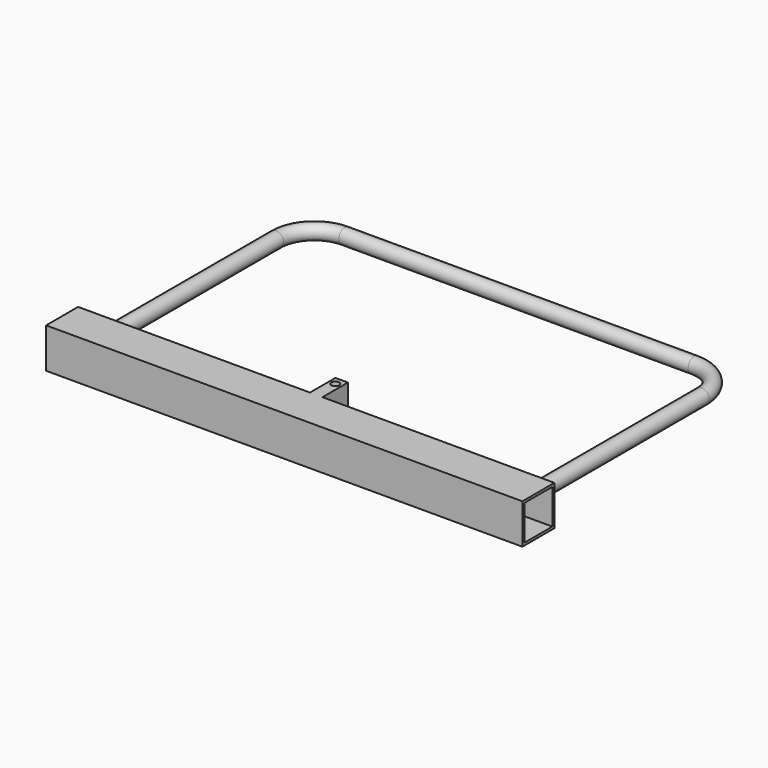
from build123d import *

# Parameters (mm, degrees)
F0_W      = 80
F0_H      = 80
F0_W_2    = 70
F0_H_2    = 70
F1_DEPTH  = 952.5
F4_R      = 15
F7_W      = 63.5
F7_H      = 80
F8_DEPTH  = 12.5
F9_R      = 7.9375
F10_DEPTH = 80.001
F11_R     = 2
F12_DEPTH = 5


with BuildPart() as f1:
    # F0 (on Right) → F1 (new body)
    with BuildSketch(Plane.YZ):
        with Locations((-40, 40)):
            Rectangle(F0_W, F0_H)
        with Locations((-40, 40)):
            Rectangle(F0_W_2, F0_H_2, mode=Mode.SUBTRACT)
    extrude(amount=-F1_DEPTH)

    # F5: sweep along a path in F3
    with BuildLine(Plane.XY.offset(40)) as f5_path:
        Line((-50.8, 0), (-50.8, 431.8))
        ThreePointArc((-50.8, 431.8), (-73.1184632736, 485.6815367264), (-127, 508))
        Line((-127, 508), (-825.5, 508))
        ThreePointArc((-825.5, 508), (-879.3815367264, 485.6815367264), (-901.7, 431.8))
        Line((-901.7, 431.8), (-901.7, 0))
    # F4 (on face) → F5 (sweep)
    with BuildSketch(Plane(origin=(0, 0, 0), x_dir=(-1, 0, 0), z_dir=(0, 1, 0))):
        with Locations((50.8, 40)):
            Circle(F4_R)
    sweep(path=f5_path.line)

    # F7 (on mid) → F8 (join, symmetric)
    with BuildSketch(Plane.YZ.offset(-476.25)):
        with Locations((31.75, 40)):
            Rectangle(F7_W, F7_H)
    extrude(amount=F8_DEPTH, both=True)

    # F9 (on face) → F10 (cut, through all)
    with BuildSketch(Plane.XY.offset(80)):
        with Locations((-476.25, 47.625)):
            Circle(F9_R)
    extrude(amount=-F10_DEPTH, mode=Mode.SUBTRACT)

    # F11 (on face) → F12 (cut, through all)
    with BuildSketch(Plane(origin=(0, 0, 0), x_dir=(-1, 0, 0), z_dir=(0, 1, 0))):
        with Locations((852.5, 10)):
            Circle(F11_R)
    extrude(amount=-F12_DEPTH, mode=Mode.SUBTRACT)


solid = f1.part
